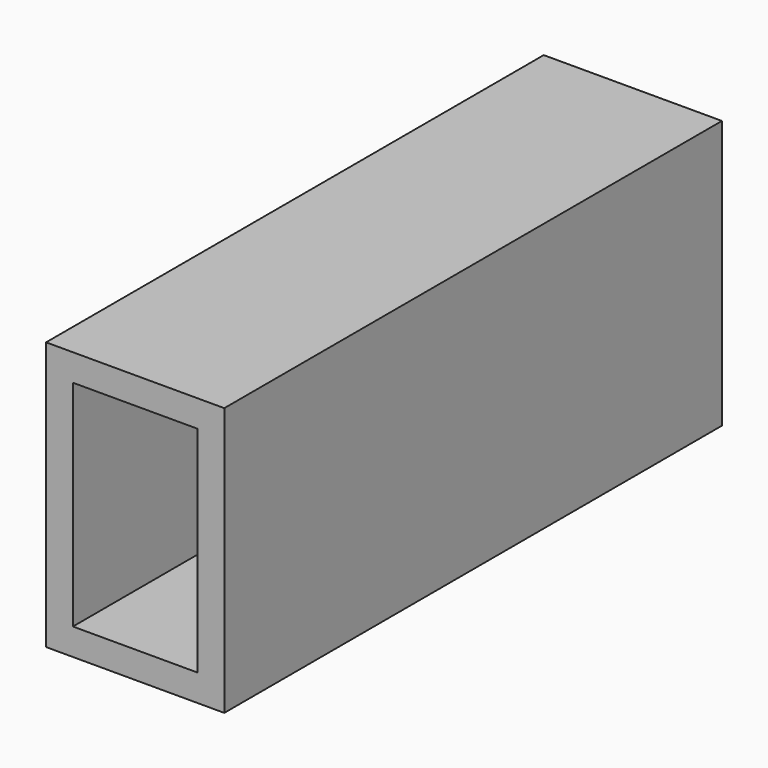
from build123d import *

# Parameters (mm, degrees)
F1_W     = 16.60604
F1_H     = 57.964683
F2_DEPTH = 25
F3_T     = -2.5


with BuildPart() as f2:
    # F1 (on face) → F2 (new body)
    with BuildSketch(Plane.XY):
        with Locations((-8.30302, 28.982342)):
            Rectangle(F1_W, F1_H)
    extrude(amount=F2_DEPTH)

    # F3
    f3_openings = [f2.faces().sort_by_distance(p)[0] for p in [
        (-8.30302, 0, 12.5),
    ]]
    offset(amount=F3_T, openings=f3_openings)


solid = f2.part
